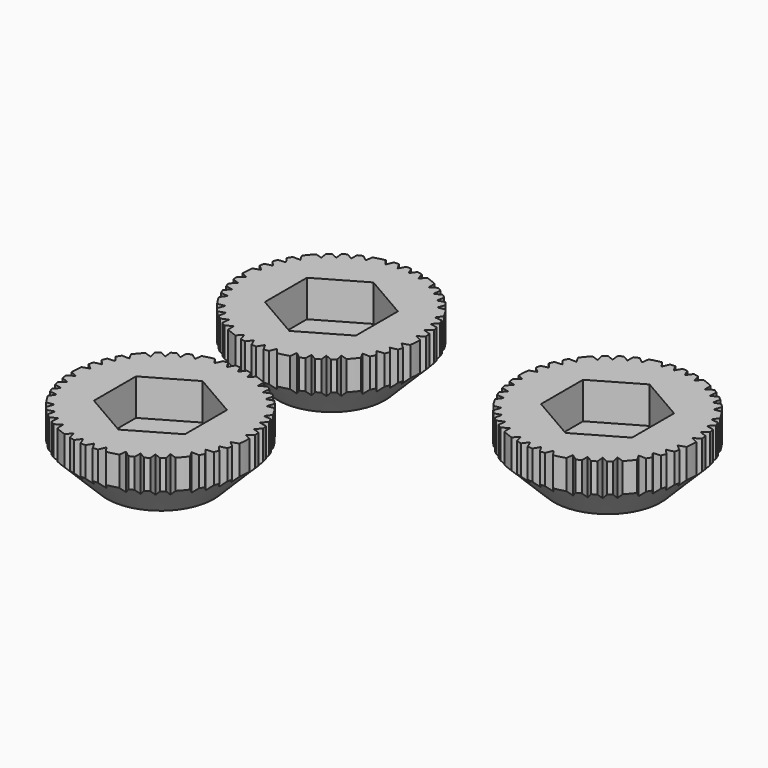
from build123d import *

# Parameters (mm, degrees)
F1_DEPTH = 8
F3_DEPTH = 4.5


with BuildPart() as f1:
    # F0 (on Top) → F1 (new body)
    with BuildSketch(Plane.XY):
        with BuildLine():
            Line((10.1962088537, 0.3062033787), (10.9682872474, 0.8346705085))
            ThreePointArc((10.9682872474, 0.8346705085), (10.9394868573, 1.1522271042), (10.9014944363, 1.4688155278))
            Line((10.9014944363, 1.4688155278), (10.0481959779, 1.7548203265))
            Line((10.0481959779, 1.7548203265), (10.7420781502, 2.3680703147))
            ThreePointArc((10.7420781502, 2.3680703147), (10.6719998967, 2.666161699), (10.5936513341, 2.9621869307))
            Line((10.5936513341, 2.9621869307), (9.7007764662, 3.1519733426))
            Line((9.7007764662, 3.1519733426), (10.3115737541, 3.8303324546))
            ThreePointArc((10.3115737541, 3.8303324546), (10.2032122353, 4.1102871044), (10.0872516993, 4.3871805474))
            Line((10.0872516993, 4.3871805474), (9.1676483871, 4.471903426))
            Line((9.1676483871, 4.471903426), (9.6886271551, 5.2086950237))
            ThreePointArc((9.6886271551, 5.2086950237), (9.336063552, 5.817036819), (8.945354735, 6.4016114116))
            Line((8.945354735, 6.4016114116), (8.0689244107, 6.2409049307))
            Line((8.0689244107, 6.2409049307), (8.3829237669, 7.1222601131))
            ThreePointArc((8.3829237669, 7.1222601131), (8.1729686781, 7.3622403511), (7.9561461575, 7.5960343812))
            Line((7.9561461575, 7.5960343812), (7.0977038005, 7.3258608742))
            Line((7.0977038005, 7.3258608742), (7.2986069711, 8.2298442441))
            ThreePointArc((7.2986069711, 8.2298442441), (7.0666987535, 8.429814276), (6.8293141693, 8.6232515895))
            Line((6.8293141693, 8.6232515895), (5.9954095734, 8.2519733426))
            Line((5.9954095734, 8.2519733426), (6.0908254776, 9.1597950305))
            ThreePointArc((6.0908254776, 9.1597950305), (5.838605953, 9.3225897972), (5.5820380264, 9.4784414052))
            Line((5.5820380264, 9.4784414052), (4.7882644601, 9.006454389))
            Line((4.7882644601, 9.006454389), (4.776669902, 9.9087549494))
            ThreePointArc((4.776669902, 9.9087549494), (4.1338656199, 10.1936821138), (3.4741712227, 10.4369600131))
            Line((3.4741712227, 10.4369600131), (2.8595850953, 9.7917929196))
            Line((2.8595850953, 9.7917929196), (2.5955683325, 10.6893884311))
            ThreePointArc((2.5955683325, 10.6893884311), (2.2846542529, 10.7601280171), (1.971820466, 10.8218262807))
            Line((1.971820466, 10.8218262807), (1.4361300135, 10.0986715647))
            Line((1.4361300135, 10.0986715647), (1.0673159995, 10.9480973944))
            ThreePointArc((1.0673159995, 10.9480973944), (0.7621588747, 10.9735643184), (0.4564111118, 10.9905272347))
            Line((0.4564111118, 10.9905272347), (0, 10.2))
            Line((0, 10.2), (-0.4564111118, 10.9905272347))
            ThreePointArc((-0.4564111118, 10.9905272347), (-0.7561493565, 10.9739800506), (-1.0553244461, 10.9492598066))
            Line((-1.0553244461, 10.9492598066), (-1.4200737435, 10.1008458935))
            Line((-1.4200737435, 10.1008458935), (-1.9598129006, 10.8240072706))
            ThreePointArc((-1.9598129006, 10.8240072706), (-2.6473284741, 10.6766873116), (-3.324027614, 10.4857446288))
            Line((-3.324027614, 10.4857446288), (-3.4420185327, 9.6025488241))
            Line((-3.4420185327, 9.6025488241), (-4.1832059847, 10.1735336874))
            ThreePointArc((-4.1832059847, 10.1735336874), (-4.4763204444, 10.0480125039), (-4.7656736238, 9.9140483613))
            Line((-4.7656736238, 9.9140483613), (-4.7739966265, 9.0141329588))
            Line((-4.7739966265, 9.0141329588), (-5.5716534071, 9.4845494522))
            ThreePointArc((-5.5716534071, 9.4845494522), (-5.8334997894, 9.3257857689), (-6.0908254776, 9.1597950305))
            Line((-6.0908254776, 9.1597950305), (-5.9954095734, 8.2519733426))
            Line((-5.9954095734, 8.2519733426), (-6.8293141693, 8.6232515895))
            ThreePointArc((-6.8293141693, 8.6232515895), (-7.0620813124, 8.4336829165), (-7.2895888494, 8.2378331136))
            Line((-7.2895888494, 8.2378331136), (-7.0859920436, 7.3370575818))
            Line((-7.0859920436, 7.3370575818), (-7.9477137868, 7.6048567089))
            ThreePointArc((-7.9477137868, 7.6048567089), (-8.4173330703, 7.0815608437), (-8.8525608816, 6.5293311937))
            Line((-8.8525608816, 6.5293311937), (-8.4288880711, 5.7454574564))
            Line((-8.4288880711, 5.7454574564), (-9.3641377978, 5.7717348608))
            ThreePointArc((-9.3641377978, 5.7717348608), (-9.5274928764, 5.4978977336), (-9.6828423686, 5.2194409341))
            Line((-9.6828423686, 5.2194409341), (-9.1606188173, 4.4865019417))
            Line((-9.1606188173, 4.4865019417), (-10.0824405858, 4.3982259872))
            ThreePointArc((-10.0824405858, 4.3982259872), (-10.2009598073, 4.1158740275), (-10.3115737541, 3.8303324546))
            Line((-10.3115737541, 3.8303324546), (-9.7007764662, 3.1519733426))
            Line((-9.7007764662, 3.1519733426), (-10.5936513341, 2.9621869307))
            ThreePointArc((-10.5936513341, 2.9621869307), (-10.6705382383, 2.6720055587), (-10.7394780761, 2.3798341648))
            Line((-10.7394780761, 2.3798341648), (-10.0453022271, 1.7707626513))
            Line((-10.0453022271, 1.7707626513), (-10.8998581392, 1.480909364))
            ThreePointArc((-10.8998581392, 1.480909364), (-10.9722025284, 0.7815188269), (-10.99971678, 0.0789351664))
            Line((-10.99971678, 0.0789351664), (-10.1962088537, -0.3062033787))
            Line((-10.1962088537, -0.3062033787), (-10.9682872474, -0.8346705085))
            ThreePointArc((-10.9682872474, -0.8346705085), (-10.9394868573, -1.1522271042), (-10.9014944363, -1.4688155278))
            Line((-10.9014944363, -1.4688155278), (-10.0481959779, -1.7548203265))
            Line((-10.0481959779, -1.7548203265), (-10.7420781502, -2.3680703147))
            ThreePointArc((-10.7420781502, -2.3680703147), (-10.6719998967, -2.666161699), (-10.5936513341, -2.9621869307))
            Line((-10.5936513341, -2.9621869307), (-9.7007764662, -3.1519733426))
            Line((-9.7007764662, -3.1519733426), (-10.3115737541, -3.8303324546))
            ThreePointArc((-10.3115737541, -3.8303324546), (-10.2032122353, -4.1102871044), (-10.0872516993, -4.3871805474))
            Line((-10.0872516993, -4.3871805474), (-9.1676483871, -4.471903426))
            Line((-9.1676483871, -4.471903426), (-9.6886271551, -5.2086950237))
            ThreePointArc((-9.6886271551, -5.2086950237), (-9.336063552, -5.817036819), (-8.945354735, -6.4016114116))
            Line((-8.945354735, -6.4016114116), (-8.0689244107, -6.2409049307))
            Line((-8.0689244107, -6.2409049307), (-8.3829237669, -7.1222601131))
            ThreePointArc((-8.3829237669, -7.1222601131), (-8.1729686781, -7.3622403511), (-7.9561461575, -7.5960343812))
            Line((-7.9561461575, -7.5960343812), (-7.0977038005, -7.3258608742))
            Line((-7.0977038005, -7.3258608742), (-7.2986069711, -8.2298442441))
            ThreePointArc((-7.2986069711, -8.2298442441), (-7.0666987535, -8.429814276), (-6.8293141693, -8.6232515895))
            Line((-6.8293141693, -8.6232515895), (-5.9954095734, -8.2519733426))
            Line((-5.9954095734, -8.2519733426), (-6.0908254776, -9.1597950305))
            ThreePointArc((-6.0908254776, -9.1597950305), (-5.838605953, -9.3225897972), (-5.5820380264, -9.4784414052))
            Line((-5.5820380264, -9.4784414052), (-4.7882644601, -9.006454389))
            Line((-4.7882644601, -9.006454389), (-4.776669902, -9.9087549494))
            ThreePointArc((-4.776669902, -9.9087549494), (-4.1338656199, -10.1936821138), (-3.4741712227, -10.4369600131))
            Line((-3.4741712227, -10.4369600131), (-2.8595850953, -9.7917929196))
            Line((-2.8595850953, -9.7917929196), (-2.5955683325, -10.6893884311))
            ThreePointArc((-2.5955683325, -10.6893884311), (-2.2846542529, -10.7601280171), (-1.971820466, -10.8218262807))
            Line((-1.971820466, -10.8218262807), (-1.4361300135, -10.0986715647))
            Line((-1.4361300135, -10.0986715647), (-1.0673159995, -10.9480973944))
            ThreePointArc((-1.0673159995, -10.9480973944), (-0.7621588747, -10.9735643184), (-0.4564111118, -10.9905272347))
            Line((-0.4564111118, -10.9905272347), (0, -10.2))
            Line((0, -10.2), (0.4564111118, -10.9905272347))
            ThreePointArc((0.4564111118, -10.9905272347), (0.7561493565, -10.9739800506), (1.0553244461, -10.9492598066))
            Line((1.0553244461, -10.9492598066), (1.4200737435, -10.1008458935))
            Line((1.4200737435, -10.1008458935), (1.9598129006, -10.8240072706))
            ThreePointArc((1.9598129006, -10.8240072706), (2.6473284741, -10.6766873116), (3.324027614, -10.4857446288))
            Line((3.324027614, -10.4857446288), (3.4420185327, -9.6025488241))
            Line((3.4420185327, -9.6025488241), (4.1832059847, -10.1735336874))
            ThreePointArc((4.1832059847, -10.1735336874), (4.4763204444, -10.0480125039), (4.7656736238, -9.9140483613))
            Line((4.7656736238, -9.9140483613), (4.7739966265, -9.0141329588))
            Line((4.7739966265, -9.0141329588), (5.5716534071, -9.4845494522))
            ThreePointArc((5.5716534071, -9.4845494522), (5.8334997894, -9.3257857689), (6.0908254776, -9.1597950305))
            Line((6.0908254776, -9.1597950305), (5.9954095734, -8.2519733426))
            Line((5.9954095734, -8.2519733426), (6.8293141693, -8.6232515895))
            ThreePointArc((6.8293141693, -8.6232515895), (7.0620813124, -8.4336829165), (7.2895888494, -8.2378331136))
            Line((7.2895888494, -8.2378331136), (7.0859920436, -7.3370575818))
            Line((7.0859920436, -7.3370575818), (7.9477137868, -7.6048567089))
            ThreePointArc((7.9477137868, -7.6048567089), (8.4173330703, -7.0815608437), (8.8525608816, -6.5293311937))
            Line((8.8525608816, -6.5293311937), (8.4288880711, -5.7454574564))
            Line((8.4288880711, -5.7454574564), (9.3641377978, -5.7717348608))
            ThreePointArc((9.3641377978, -5.7717348608), (9.5274928764, -5.4978977336), (9.6828423686, -5.2194409341))
            Line((9.6828423686, -5.2194409341), (9.1606188173, -4.4865019417))
            Line((9.1606188173, -4.4865019417), (10.0824405858, -4.3982259872))
            ThreePointArc((10.0824405858, -4.3982259872), (10.2009598073, -4.1158740275), (10.3115737541, -3.8303324546))
            Line((10.3115737541, -3.8303324546), (9.7007764662, -3.1519733426))
            Line((9.7007764662, -3.1519733426), (10.5936513341, -2.9621869307))
            ThreePointArc((10.5936513341, -2.9621869307), (10.6705382383, -2.6720055587), (10.7394780761, -2.3798341648))
            Line((10.7394780761, -2.3798341648), (10.0453022271, -1.7707626513))
            Line((10.0453022271, -1.7707626513), (10.8998581392, -1.480909364))
            ThreePointArc((10.8998581392, -1.480909364), (10.9722025284, -0.7815188269), (10.99971678, -0.0789351664))
            Line((10.99971678, -0.0789351664), (10.1962088537, 0.3062033787))
        make_face()
    extrude(amount=F1_DEPTH)

    # F2 (on face) → F3 (cut)
    with BuildSketch(Plane.XY.offset(8)):
        Polygon((5.6, -3.2331615075), (5.6, 3.2331615075), (0, 6.4663230149), (-5.6, 3.2331615075), (-5.6, -3.2331615075), (0, -6.4663230149), align=None)
    extrude(amount=-F3_DEPTH, mode=Mode.SUBTRACT)

    # F4 (on Front) → F6 (revolve, cut)
    with BuildSketch(Plane.XZ):
        Polygon((11.0973529134, 0), (11.0973529134, 4.5), (6.5973529134, 0), align=None)
    revolve(axis=Axis((0, 0, -5.4662646726), (0, 0, -1)), mode=Mode.SUBTRACT)


with BuildPart() as f7_1:
    # F7: copy of F1
    add(f1.part.moved(Location((34, 0, 0))))


with BuildPart() as f8_1:
    # F8: copy of F1
    add(f1.part.moved(Location((-24, 9, -34))))


with BuildPart() as f10_1:
    # F10: copy of F1
    add(f1.part.moved(Location((0, -26.3, 0))))


solid = Compound([f1.part, f7_1.part, f10_1.part])
